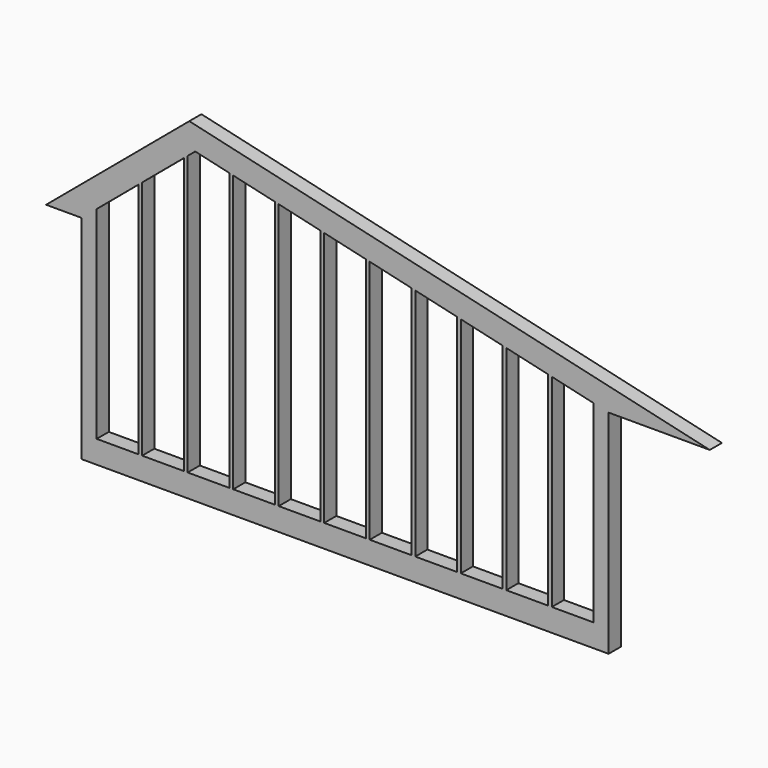
from build123d import *

# Parameters (mm, degrees)
F1_DEPTH = 200


with BuildPart() as f1:
    # F0 (on Front) → F1 (new body)
    with BuildSketch(Plane.XZ):
        Polygon((-200, 2500), (0, 2667.8199262355), (549, 3128.4856237518), (549, 3520.1078105515), (-666.7171480581, 2500), align=None)
        Polygon((549, 3520.1078105515), (549, 3128.4856237518), (600, 3171.2797049418), (600, 3562.9018917415), align=None)
        Polygon((600, 3562.9018917415), (600, 3171.2797049418), (1149, 3631.9454024582), (1149, 4023.5675892578), align=None)
        Polygon((1149, 4023.5675892578), (1149, 3631.9454024582), (1200, 3674.7394836482), (1200, 4066.3616704479), align=None)
        Polygon((1200, 4066.3616704479), (1200, 3674.7394836482), (1299.3937450181, 3758.1407384342), (1749, 3654.3409556278), (1749, 3962.2321879658), (1221.1381631993, 4084.0986953922), align=None)
        Polygon((1749, 3962.2321879658), (1749, 3654.3409556278), (1800, 3642.5666778804), (1800, 3950.4579102184), align=None)
        Polygon((1800, 3950.4579102184), (1800, 3642.5666778804), (2349, 3515.8200409525), (2349, 3823.7112732905), align=None)
        Polygon((2349, 3823.7112732905), (2349, 3515.8200409525), (2400, 3504.0457632051), (2400, 3811.9369955431), align=None)
        Polygon((2400, 3811.9369955431), (2400, 3504.0457632051), (2949, 3377.2991262771), (2949, 3685.1903586152), align=None)
        Polygon((2949, 3685.1903586152), (2949, 3377.2991262771), (3000, 3365.5248485297), (3000, 3673.4160808678), align=None)
        Polygon((3000, 3673.4160808678), (3000, 3365.5248485297), (3549, 3238.7782116018), (3549, 3546.6694439398), align=None)
        Polygon((3549, 3546.6694439398), (3549, 3238.7782116018), (3600, 3227.0039338544), (3600, 3534.8951661924), align=None)
        Polygon((3600, 3534.8951661924), (3600, 3227.0039338544), (4149, 3100.2572969265), (4149, 3408.1485292645), align=None)
        Polygon((4200, 3088.4830191791), (4200, 3396.3742515171), (4149, 3408.1485292645), (4149, 3100.2572969265), align=None)
        Polygon((4749, 2961.7363822511), (4749, 3269.6276145891), (4200, 3396.3742515171), (4200, 3088.4830191791), align=None)
        Polygon((4800, 2949.9621045037), (4800, 3257.8533368417), (4749, 3269.6276145891), (4749, 2961.7363822511), align=None)
        Polygon((5349, 2823.2154675758), (5349, 3131.1066999138), (4800, 3257.8533368417), (4800, 2949.9621045037), align=None)
        Polygon((5400, 2811.4411898284), (5400, 3119.3324221664), (5349, 3131.1066999138), (5349, 2823.2154675758), align=None)
        Polygon((5949, 2684.6945529005), (5949, 2992.5857852385), (5400, 3119.3324221664), (5400, 2811.4411898284), align=None)
        Polygon((6549, 2546.1736382251), (6749, 2500), (8082.6234447757, 2500), (6000, 2980.8115074911), (6000, 2672.920275153), align=None)
        Polygon((6000, 2672.920275153), (6000, 2980.8115074911), (5949, 2992.5857852385), (5949, 2684.6945529005), align=None)
        Polygon((549, 0), (0, 0), (0, 2667.8199262355), (-200, 2500), (-200, -300), (6749, -300), (6749, 2500), (6549, 2546.1736382251), (6549, 0), (6000, 0), (5949, 0), (5400, 0), (5349, 0), (4800, 0), (4749, 0), (4200, 0), (4149, 0), (3600, 0), (3549, 0), (3000, 0), (2949, 0), (2400, 0), (2349, 0), (1800, 0), (1749, 0), (1200, 0), (1149, 0), (600, 0), align=None)
        Polygon((6000, 0), (6000, 2672.920275153), (5949, 2684.6945529005), (5949, 0), align=None)
        Polygon((5400, 0), (5400, 2811.4411898284), (5349, 2823.2154675758), (5349, 0), align=None)
        Polygon((4800, 0), (4800, 2949.9621045037), (4749, 2961.7363822511), (4749, 0), align=None)
        Polygon((4200, 0), (4200, 3088.4830191791), (4149, 3100.2572969265), (4149, 0), align=None)
        Polygon((3549, 3238.7782116018), (3549, 0), (3600, 0), (3600, 3227.0039338544), align=None)
        Polygon((2949, 3377.2991262771), (2949, 0), (3000, 0), (3000, 3365.5248485297), align=None)
        Polygon((2349, 3515.8200409525), (2349, 0), (2400, 0), (2400, 3504.0457632051), align=None)
        Polygon((1749, 3654.3409556278), (1749, 0), (1800, 0), (1800, 3642.5666778804), align=None)
        Polygon((1149, 3631.9454024582), (1149, 0), (1200, 0), (1200, 3674.7394836482), align=None)
        Polygon((549, 3128.4856237518), (549, 0), (600, 0), (600, 3171.2797049418), align=None)
    extrude(amount=F1_DEPTH)


solid = f1.part
